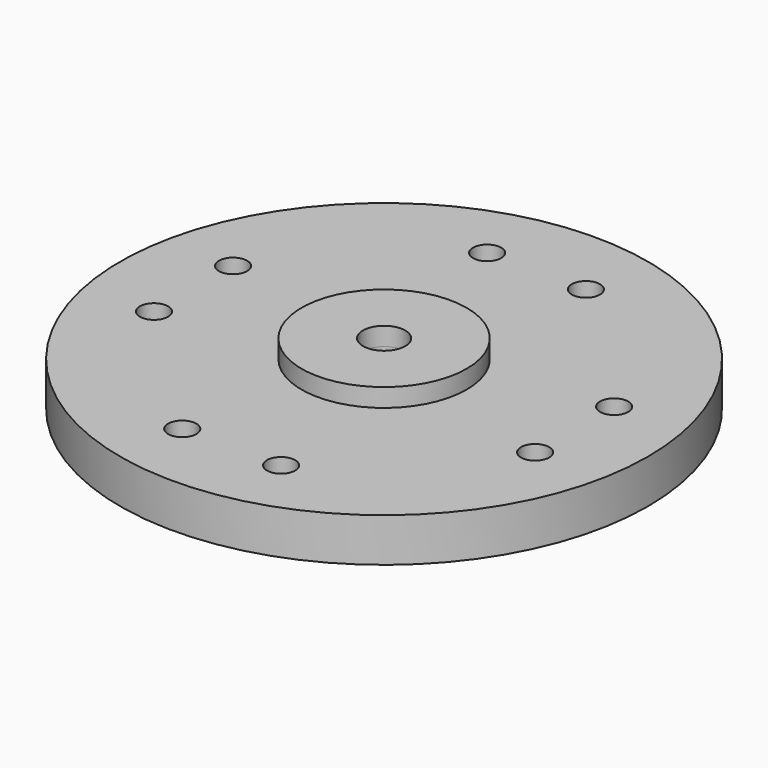
from build123d import *

# Parameters (mm, degrees)
F0_R          = 9.35
F0_R_2        = 0.5
F0_R_3        = 2.925
F0_R_4        = 0.75
F1_DEPTH      = 1.55
F2_R          = 2.925
F2_R_2        = 0.75
F3_DEPTH      = 2
F3_DEPTH_BACK = 2.2


with BuildPart() as f1:
    # F0 (on Top) → F1 (new body)
    with BuildSketch(Plane.XY):
        Circle(F0_R)
        with Locations((-1.75, -6.75)):
            Circle(F0_R_2, mode=Mode.SUBTRACT)
        with Locations((-6.75, -1.75)):
            Circle(F0_R_2, mode=Mode.SUBTRACT)
        Circle(F0_R_3, mode=Mode.SUBTRACT)
        with Locations((1.75, -6.75)):
            Circle(F0_R_2, mode=Mode.SUBTRACT)
        with Locations((6.75, -1.75)):
            Circle(F0_R_2, mode=Mode.SUBTRACT)
        with Locations((-6.75, 1.75)):
            Circle(F0_R_2, mode=Mode.SUBTRACT)
        with Locations((-1.75, 6.75)):
            Circle(F0_R_2, mode=Mode.SUBTRACT)
        with Locations((6.75, 1.75)):
            Circle(F0_R_2, mode=Mode.SUBTRACT)
        with Locations((1.75, 6.75)):
            Circle(F0_R_2, mode=Mode.SUBTRACT)
        Circle(F0_R_3)
        Circle(F0_R_4, mode=Mode.SUBTRACT)
    extrude(amount=F1_DEPTH)

    # F2 (on face) → F3 (join, two sides)
    with BuildSketch(Plane(origin=(0, 0, 0), x_dir=(1, 0, 0), z_dir=(0, 0, -1))) as f3_sk:
        Circle(F2_R)
        Circle(F2_R_2, mode=Mode.SUBTRACT)
    extrude(amount=F3_DEPTH)
    extrude(f3_sk.sketch, amount=-F3_DEPTH_BACK)


solid = f1.part
